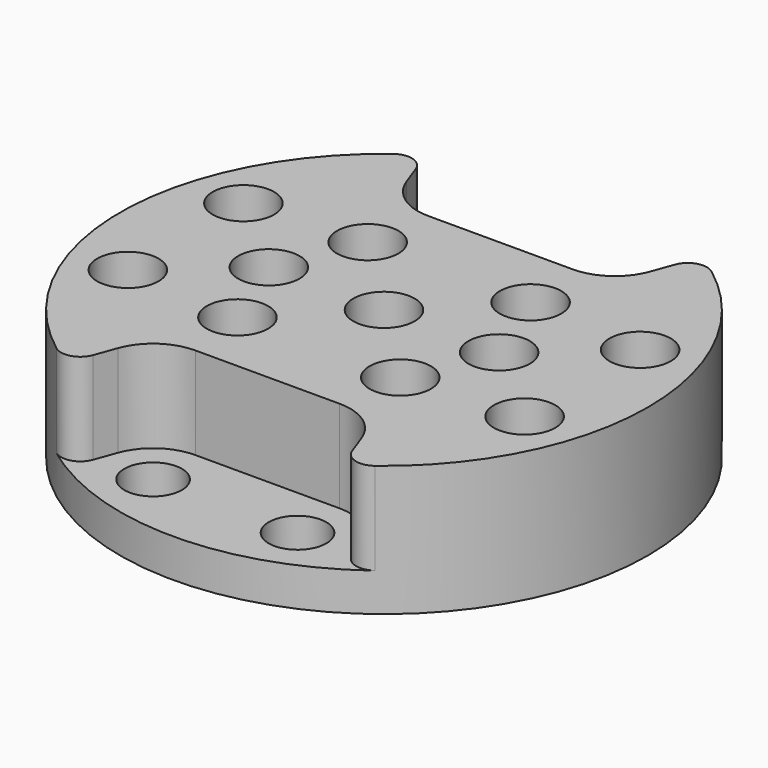
from build123d import *

# Parameters (mm, degrees)
SKETCH_R        = 13.75
PAD_DEPTH       = 6.8
POCKET_DEPTH    = 4.8
SKETCH002_R     = 1.6
SKETCH002_R_2   = 1.5
POCKET001_DEPTH = 6.801
FILLET_R        = 1


with BuildPart() as part:
    # Sketch → Pad (new body)
    with BuildSketch(Plane.XY):
        Circle(SKETCH_R)
    extrude(amount=PAD_DEPTH)

    # Sketch001 (on Face3 of Pad) → Pocket (cut)
    with BuildSketch(Plane.XY.offset(6.8)):
        with BuildLine():
            ThreePointArc((-6.346376, 9.396063), (-5.339557, 8.083951), (-3.762222, 7.586619))
            Line((-3.762222, 7.586619), (3.762222, 7.586619))
            ThreePointArc((3.762222, 7.586619), (5.339557, 8.083951), (6.346376, 9.396063))
            Line((6.346376, 9.396063), (7.191916, 11.719166))
            ThreePointArc((7.191916, 11.719166), (0, 13.75), (-7.191916, 11.719166))
            Line((-7.191916, 11.719166), (-6.346376, 9.396063))
        make_face()
        with BuildLine():
            Line((-6.346376, -9.396063), (-7.191916, -11.719166))
            ThreePointArc((-7.191916, -11.719166), (0, -13.75), (7.191916, -11.719166))
            Line((6.346376, -9.396063), (7.191916, -11.719166))
            ThreePointArc((6.346376, -9.396063), (5.339557, -8.083951), (3.762222, -7.586619))
            Line((-3.762222, -7.586619), (3.762222, -7.586619))
            ThreePointArc((-3.762222, -7.586619), (-5.339557, -8.083951), (-6.346376, -9.396063))
        make_face()
    extrude(amount=-POCKET_DEPTH, mode=Mode.SUBTRACT)

    # Sketch002 (on Face3 of Pocket) → Pocket001 (cut, through all)
    with BuildSketch(Plane.XY.offset(6.8)):
        with Locations((-10.336619, 3.762222)):
            Circle(SKETCH002_R)
        with Locations((10.336619, 3.762222)):
            Circle(SKETCH002_R)
        with Locations((10.336619, -3.762222)):
            Circle(SKETCH002_R)
        with Locations((-10.336619, -3.762222)):
            Circle(SKETCH002_R)
        with Locations((3.762222, 10.336619)):
            Circle(SKETCH002_R_2)
        with Locations((-3.762222, 10.336619)):
            Circle(SKETCH002_R_2)
        with Locations((-3.762222, -10.336619)):
            Circle(SKETCH002_R_2)
        with Locations((3.762222, -10.336619)):
            Circle(SKETCH002_R_2)
        Circle(SKETCH002_R)
        with Locations((-4.242641, 4.242641)):
            Circle(SKETCH002_R)
        with Locations((4.242641, 4.242641)):
            Circle(SKETCH002_R)
        with Locations((4.242641, -4.242641)):
            Circle(SKETCH002_R)
        with Locations((-4.242641, -4.242641)):
            Circle(SKETCH002_R)
        with Locations((-6, 0)):
            Circle(SKETCH002_R)
        with Locations((6, 0)):
            Circle(SKETCH002_R)
    extrude(amount=-POCKET001_DEPTH, mode=Mode.SUBTRACT)

    # Fillet
    fillet_edges = [part.edges().sort_by_distance(p)[0] for p in [
        (-7.191916, -11.719166, 4.4),
        (7.191916, -11.719166, 4.4),
        (7.191916, 11.719166, 4.4),
        (-7.191916, 11.719166, 4.4),
    ]]
    fillet(fillet_edges, radius=FILLET_R)


solid = part.part
